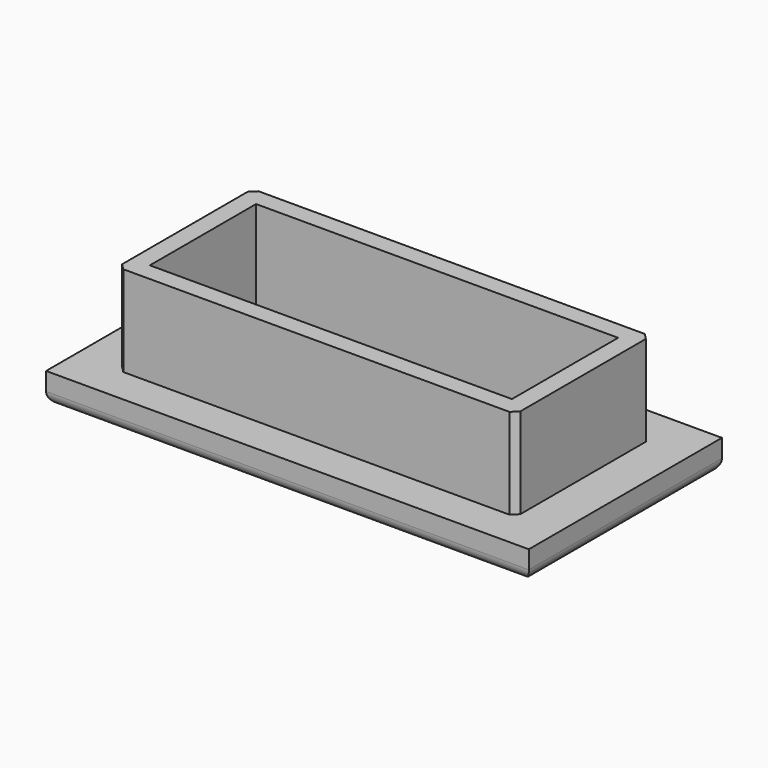
from build123d import *

# Parameters (mm, degrees)
F0_W     = 80
F0_H     = 40
F1_DEPTH = 5
F2_W     = 66
F2_H     = 28
F2_W_2   = 60
F2_H_2   = 22
F3_DEPTH = 15
F4_R     = 2
F5_SIZE  = 1


with BuildPart() as f1:
    # F0 (on Top) → F1 (new body)
    with BuildSketch(Plane.XY):
        Rectangle(F0_W, F0_H)
    extrude(amount=F1_DEPTH)

    # F2 (on face) → F3 (join)
    with BuildSketch(Plane.XY.offset(5)):
        Rectangle(F2_W, F2_H)
        Rectangle(F2_W_2, F2_H_2, mode=Mode.SUBTRACT)
    extrude(amount=F3_DEPTH)

    # F4
    f4_edges = [f1.edges().sort_by_distance(p)[0] for p in [
        (0, -20, 0),
        (-40, 0, 0),
        (0, 20, 0),
        (40, 0, 0),
    ]]
    fillet(f4_edges, radius=F4_R)

    # F5
    f5_edges = [f1.edges().sort_by_distance(p)[0] for p in [
        (-33, -14, 12.5),
        (-33, 14, 12.5),
        (33, -14, 12.5),
        (33, 14, 12.5),
    ]]
    chamfer(f5_edges, length=F5_SIZE)


solid = f1.part
